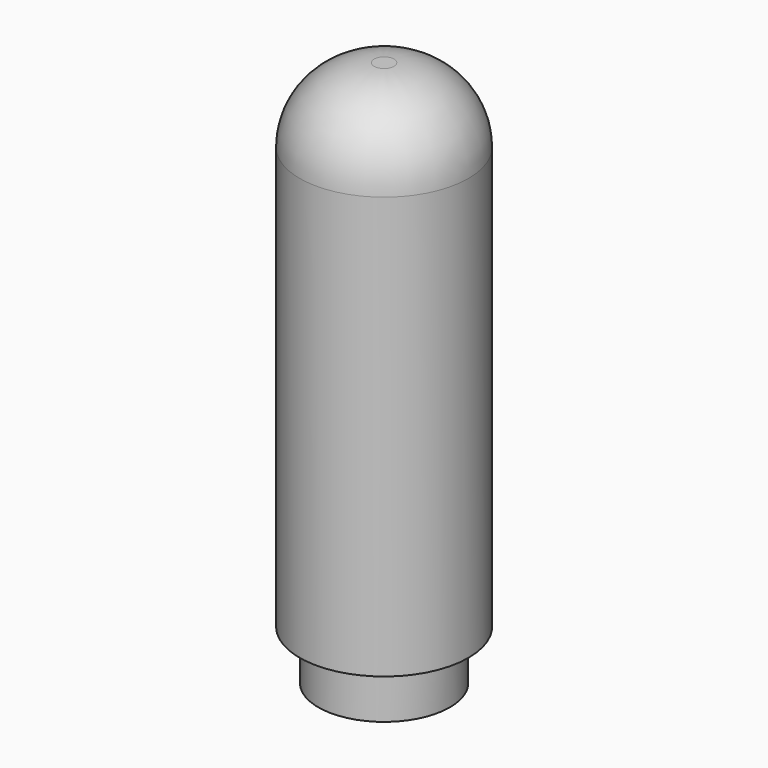
from build123d import *

# Parameters (mm, degrees)
F0_R     = 17
F0_R_2   = 13.25
F0_R_3   = 10.25
F1_DEPTH = 100
F2_DEPTH = 10
F3_R     = 15


with BuildPart() as f1:
    # F0 (on Top) → F1 (new body)
    with BuildSketch(Plane.XY):
        Circle(F0_R)
        Circle(F0_R_2, mode=Mode.SUBTRACT)
        Circle(F0_R_2)
        Circle(F0_R_3, mode=Mode.SUBTRACT)
        Circle(F0_R_3)
    extrude(amount=F1_DEPTH)

    # F3
    f3_edges = [f1.edges().sort_by_distance(p)[0] for p in [
        (-17, 0, 100),
    ]]
    fillet(f3_edges, radius=F3_R)


with BuildPart() as f2:
    # F0 (on Top) → F2 (new body)
    with BuildSketch(Plane.XY):
        Circle(F0_R_2)
        Circle(F0_R_3, mode=Mode.SUBTRACT)
        Circle(F0_R_3)
    extrude(amount=-F2_DEPTH)


solid = Compound([f1.part, f2.part])
